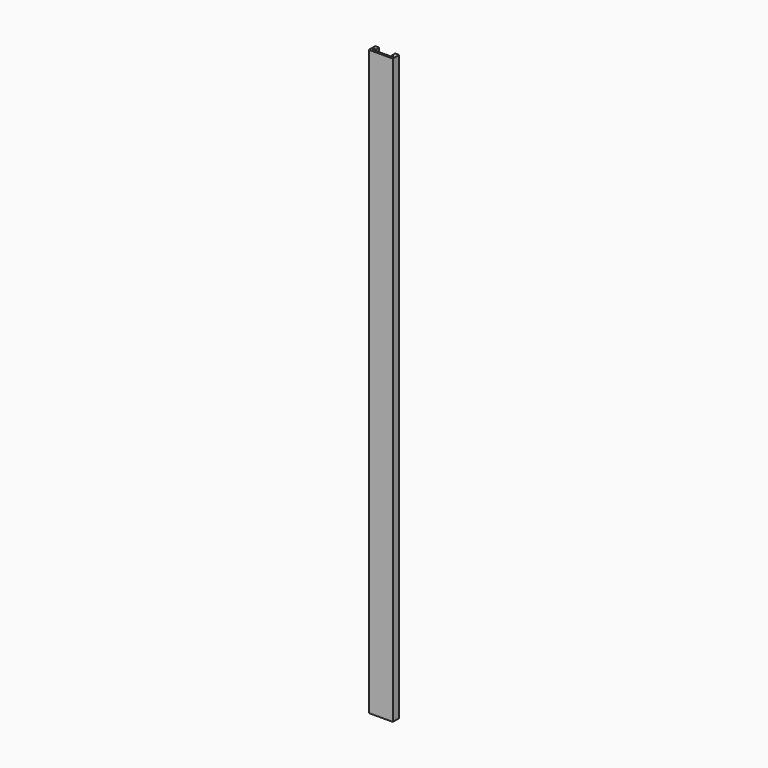
from build123d import *

# Parameters (mm, degrees)
F1_DEPTH = 371.4496


with BuildPart() as f1:
    # F0 (on Top) → F1 (new body)
    with BuildSketch(Plane.XY):
        Polygon((0, 5.08), (0, 0), (7.62, 0), (7.62, 1.27), (1.27, 1.27), (1.27, 2.54), (2.54, 2.54), (2.54, 5.08), align=None)
    extrude(amount=F1_DEPTH)

    # F2: F1 across face


with BuildPart() as f1_1:
    add(f1.part)
    add(f1.part.mirror(Plane(origin=(7.62, 0.635, 185.7248), x_dir=(0, 1, 0), z_dir=(1, 0, 0))))


solid = f1_1.part
